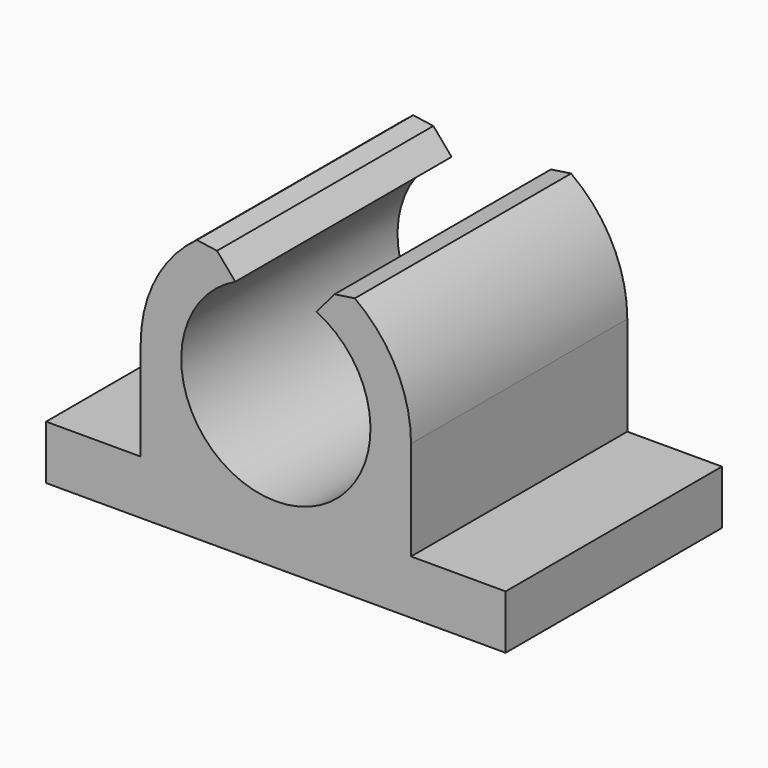
from build123d import *

# Parameters (mm, degrees)
PAD_DEPTH       = 10
CHAMFER_SIZE    = 0.5
CHAMFER001_SIZE = 0.5


with BuildPart() as part:
    # Sketch → Pad (new body)
    with BuildSketch(Plane.XZ):
        with BuildLine():
            ThreePointArc((-1.5, 3.162278), (0, -3.5), (1.5, 3.162278))
            Line((1.5, 3.162278), (2.5, 4.330127))
            ThreePointArc((5, 2.7e-05), (4.33012, 2.500012), (2.5, 4.330127))
            Line((5, -3.669873), (5, 2.7e-05))
            Line((8.5, -3.669873), (5, -3.669873))
            Line((8.5, -5.669873), (8.5, -3.669873))
            Line((-8.5, -5.669873), (8.5, -5.669873))
            Line((-8.5, -3.669873), (-8.5, -5.669873))
            Line((-5, -3.669873), (-8.5, -3.669873))
            Line((-5, 2.7e-05), (-5, -3.669873))
            ThreePointArc((-2.5, 4.330127), (-4.33012, 2.500012), (-5, 2.7e-05))
            Line((-2.5, 4.330127), (-1.5, 3.162278))
        make_face()
    extrude(amount=PAD_DEPTH)

    # Chamfer
    chamfer_edges = [part.edges().sort_by_distance(p)[0] for p in [
        (-2.5, -5, 4.330127),
    ]]
    chamfer(chamfer_edges, length=CHAMFER_SIZE)

    # Chamfer001
    chamfer001_edges = [part.edges().sort_by_distance(p)[0] for p in [
        (2.5, -5, 4.330127),
    ]]
    chamfer(chamfer001_edges, length=CHAMFER001_SIZE)


solid = part.part
